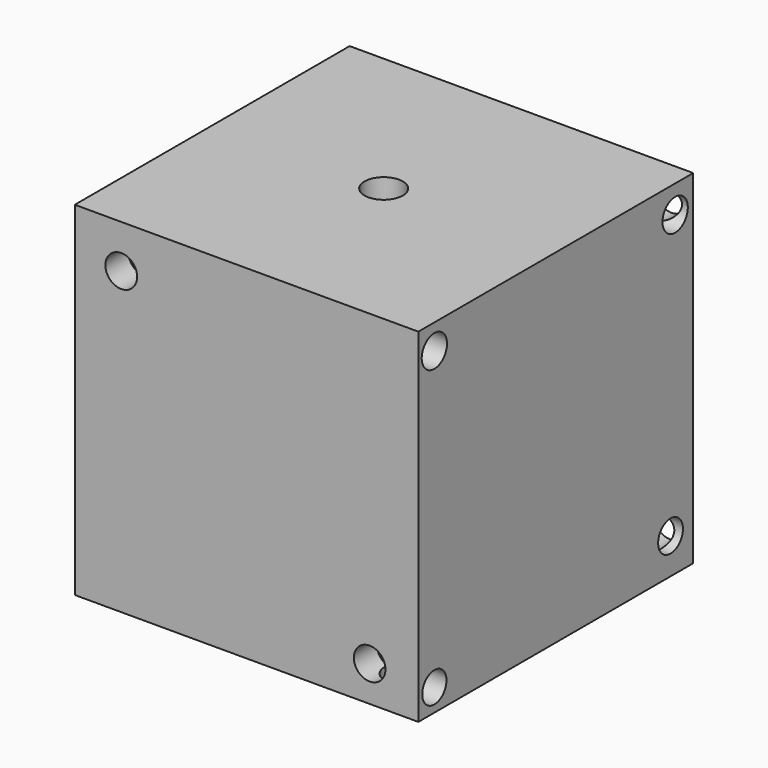
from build123d import *

# Parameters (mm, degrees)
F0_W      = 152.4
F0_H      = 152.399992557
F1_DEPTH  = 152.4
F2_R      = 8.5037572656
F3_DEPTH  = 12.7
F4_R      = 7.0073319603
F4_R_2    = 6.9501235212
F4_R_3    = 6.7658122989
F5_DEPTH  = 12.7
F6_R      = 7.0073351943
F6_R_2    = 6.9545325537
F7_DEPTH  = 12.7
F8_R      = 7.0452123399
F8_R_2    = 7.0168230938
F9_DEPTH  = 12.7
F10_R     = 7.0828869948
F10_R_2   = 7.1489340482
F10_R_3   = 7.2408196542
F11_DEPTH = 12.7
F12_R     = 6.6966018478
F12_R_2   = 6.8804301319
F12_R_3   = 6.7065356098
F12_R_4   = 6.6881507526
F12_R_5   = 6.8147907528
F12_R_6   = 6.6567393836
F13_DEPTH = 12.7
F14_R     = 7.0168186878
F14_R_2   = 6.8827909579
F14_R_3   = 7.0168182521
F14_R_4   = 6.7263512429
F15_DEPTH = 12.7


with BuildPart() as f1:
    # F0 (on Front) → F1 (new body)
    with BuildSketch(Plane.XZ):
        with Locations((0.2630501986, -0.2443604171)):
            Rectangle(F0_W, F0_H)
    extrude(amount=F1_DEPTH)

    # F2 (on face) → F3 (cut)
    with BuildSketch(Plane.XY.offset(75.9556358614)):
        with Locations((0, -76.037876308)):
            Circle(F2_R)
    extrude(amount=-F3_DEPTH, mode=Mode.SUBTRACT)

    # F4 (on face) → F5 (cut)
    with BuildSketch(Plane(origin=(0, 0, 0), x_dir=(-1, 0, 0), z_dir=(0, 1, 0))):
        with Locations((67.3541128635, 63.7721791863)):
            Circle(F4_R)
        with Locations((64.4358173013, -62.6201629639)):
            Circle(F4_R_2)
        with Locations((-66.1580115557, -63.6519268155)):
            Circle(F4_R_3)
    extrude(amount=-F5_DEPTH, mode=Mode.SUBTRACT)

    # F6 (on face) → F7 (cut)
    with BuildSketch(Plane(origin=(0, 0, 0), x_dir=(-1, 0, 0), z_dir=(0, 1, 0))):
        with Locations((-66.8875873089, 64.2880648375)):
            Circle(F6_R)
        Circle(F6_R_2)
    extrude(amount=-F7_DEPTH, mode=Mode.SUBTRACT)

    # F8 (on face) → F9 (cut)
    with BuildSketch(Plane.XZ.offset(152.4)):
        with Locations((-55.3161352873, 56.7846298218)):
            Circle(F8_R)
        with Locations((54.8496097326, -60.6768615544)):
            Circle(F8_R_2)
    extrude(amount=-F9_DEPTH, mode=Mode.SUBTRACT)

    # F10 (on face) → F11 (cut)
    with BuildSketch(Plane(origin=(-75.9369498014, 0, 0), x_dir=(0, -1, 0), z_dir=(-1, 0, 0))):
        with Locations((15.1184033602, -60.3120736778)):
            Circle(F10_R)
        with Locations((76.037876308, 0)):
            Circle(F10_R_2)
        with Locations((135.1334154606, 65.9043118358)):
            Circle(F10_R_3)
    extrude(amount=-F11_DEPTH, mode=Mode.SUBTRACT)

    # F12 (on face) → F13 (cut)
    with BuildSketch(Plane(origin=(0, 0, -76.4443566957), x_dir=(1, 0, 0), z_dir=(0, 0, -1))):
        with Locations((58.1326968968, 17.6719166338)):
            Circle(F12_R)
        with Locations((0, 18.4014886618)):
            Circle(F12_R_2)
        with Locations((-54.5865595341, 19.4958504289)):
            Circle(F12_R_3)
        with Locations((0, 140.2404308319)):
            Circle(F12_R_4)
        with Locations((-57.8696429729, 140.9700065851)):
            Circle(F12_R_5)
        with Locations((59.2270568013, 141.6995823383)):
            Circle(F12_R_6)
    extrude(amount=-F13_DEPTH, mode=Mode.SUBTRACT)

    # F14 (on face) → F15 (cut)
    with BuildSketch(Plane.YZ.offset(76.4630501986)):
        with Locations((-10.0113833323, 63.7155920267)):
            Circle(F14_R)
        with Locations((-12.5648928806, -60.6768615544)):
            Circle(F14_R_2)
        with Locations((-143.5235142708, 64.8099482059)):
            Circle(F14_R_3)
        with Locations((-143.5235142708, -66.5134564042)):
            Circle(F14_R_4)
    extrude(amount=-F15_DEPTH, mode=Mode.SUBTRACT)


solid = f1.part
